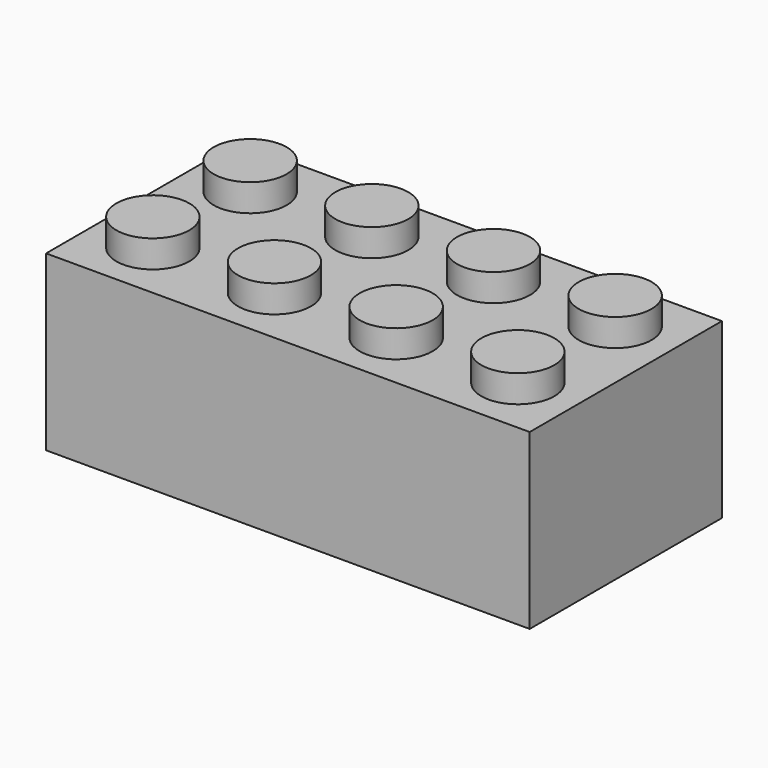
from build123d import *

# Parameters (mm, degrees)
F0_W     = 807.72
F0_H     = 401.32
F1_DEPTH = 289.56
F2_R     = 60.96
F3_DEPTH = 45.72
F4_W     = 746.76
F4_H     = 340.36
F5_DEPTH = 218.44
F6_R     = 82.677
F6_R_2   = 60.96
F7_DEPTH = 218.44


with BuildPart() as f1:
    # F0 (on Top) → F1 (new body)
    with BuildSketch(Plane.XY):
        Rectangle(F0_W, F0_H)
    extrude(amount=F1_DEPTH)

    # F2 (on face) → F3 (join)
    with BuildSketch(Plane.XY.offset(289.56)):
        with Locations((-304.8, -101.6)):
            Circle(F2_R)
        with Locations((-304.8, 101.6)):
            Circle(F2_R)
        with Locations((-101.6, 101.6)):
            Circle(F2_R)
        with Locations((-101.6, -101.6)):
            Circle(F2_R)
        with Locations((101.6, -101.6)):
            Circle(F2_R)
        with Locations((101.6, 101.6)):
            Circle(F2_R)
        with Locations((304.8, 101.6)):
            Circle(F2_R)
        with Locations((304.8, -101.6)):
            Circle(F2_R)
    extrude(amount=F3_DEPTH)

    # F4 (on face) → F5 (cut)
    with BuildSketch(Plane(origin=(0, 0, 0), x_dir=(1, 0, 0), z_dir=(0, 0, -1))):
        Rectangle(F4_W, F4_H)
    extrude(amount=-F5_DEPTH, mode=Mode.SUBTRACT)

    # F6 (on face) → F7 (join)
    with BuildSketch(Plane(origin=(0, 0, 218.44), x_dir=(1, 0, 0), z_dir=(0, 0, -1))):
        with Locations((-203.2, 0)):
            Circle(F6_R)
        with Locations((-203.2, 0)):
            Circle(F6_R_2, mode=Mode.SUBTRACT)
        Circle(F6_R)
        Circle(F6_R_2, mode=Mode.SUBTRACT)
        with Locations((203.2, 0)):
            Circle(F6_R)
        with Locations((203.2, 0)):
            Circle(F6_R_2, mode=Mode.SUBTRACT)
    extrude(amount=F7_DEPTH)


solid = f1.part
